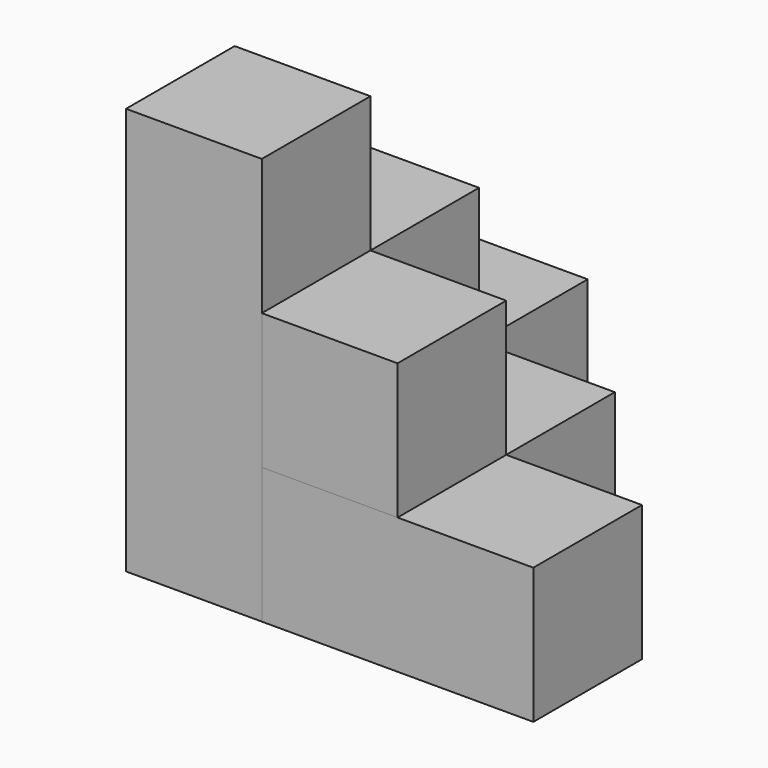
from build123d import *

# Parameters (mm, degrees)
BOX_W        = 10
BOX_H        = 10
BOX_DEPTH    = 30
BOX001_W     = 20
BOX001_H     = 10
BOX001_DEPTH = 10
BOX002_W     = 10
BOX002_H     = 10
BOX002_DEPTH = 10
BOX003_W     = 10
BOX003_H     = 10
BOX003_DEPTH = 10
BOX004_W     = 10
BOX004_H     = 20
BOX004_DEPTH = 10
BOX005_W     = 10
BOX005_H     = 10
BOX005_DEPTH = 10


with BuildPart() as cub:
    # Box → Box (new body)
    with BuildSketch(Plane.XY):
        with Locations((5, 5)):
            Rectangle(BOX_W, BOX_H)
    extrude(amount=BOX_DEPTH)


with BuildPart() as cub001:
    # Box001 → Box001 (new body)
    with BuildSketch(Plane(origin=(10, 0, 0), x_dir=(1, 0, 0), z_dir=(0, 0, 1))):
        with Locations((10, 5)):
            Rectangle(BOX001_W, BOX001_H)
    extrude(amount=BOX001_DEPTH)


with BuildPart() as cub002:
    # Box002 → Box002 (new body)
    with BuildSketch(Plane(origin=(10, 0, 10), x_dir=(1, 0, 0), z_dir=(0, 0, 1))):
        with Locations((5, 5)):
            Rectangle(BOX002_W, BOX002_H)
    extrude(amount=BOX002_DEPTH)


with BuildPart() as cub003:
    # Box003 → Box003 (new body)
    with BuildSketch(Plane(origin=(0, 10, 10), x_dir=(1, 0, 0), z_dir=(0, 0, 1))):
        with Locations((5, 5)):
            Rectangle(BOX003_W, BOX003_H)
    extrude(amount=BOX003_DEPTH)


with BuildPart() as cub004:
    # Box004 → Box004 (new body)
    with BuildSketch(Plane(origin=(0, 10, 0), x_dir=(1, 0, 0), z_dir=(0, 0, 1))):
        with Locations((5, 10)):
            Rectangle(BOX004_W, BOX004_H)
    extrude(amount=BOX004_DEPTH)


with BuildPart() as cub005:
    # Box005 → Box005 (new body)
    with BuildSketch(Plane(origin=(10, 10, 0), x_dir=(1, 0, 0), z_dir=(0, 0, 1))):
        with Locations((5, 5)):
            Rectangle(BOX005_W, BOX005_H)
    extrude(amount=BOX005_DEPTH)


solid = Compound([cub.part, cub001.part, cub002.part, cub003.part, cub004.part, cub005.part])
